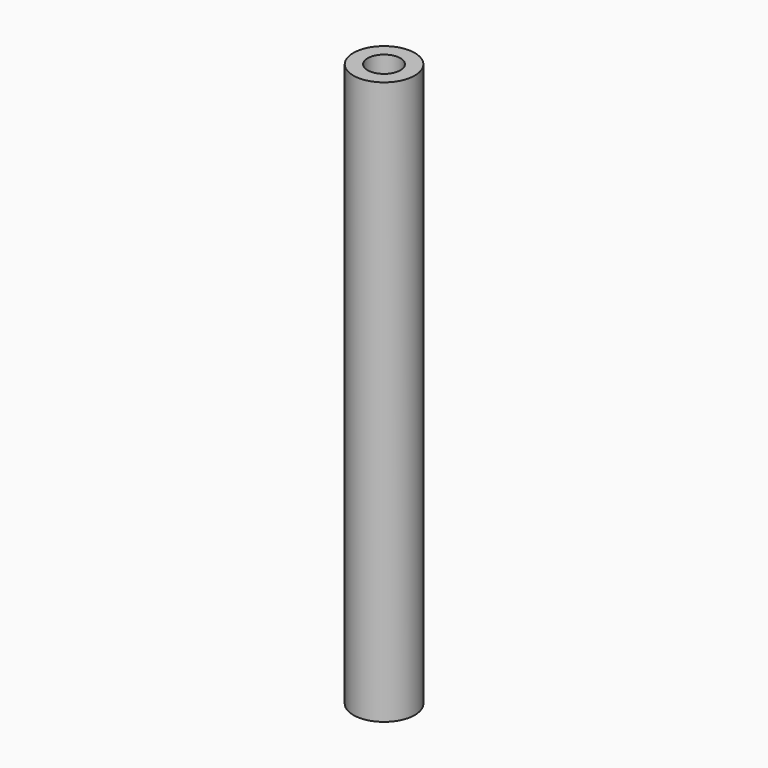
from build123d import *

# Parameters (mm, degrees)
SKETCH_R   = 3
SKETCH_R_2 = 1.6
PAD_DEPTH  = 55


with BuildPart() as part:
    # Sketch → Pad (new body)
    with BuildSketch(Plane.XY):
        Circle(SKETCH_R)
        Circle(SKETCH_R_2, mode=Mode.SUBTRACT)
    extrude(amount=PAD_DEPTH)


solid = part.part
